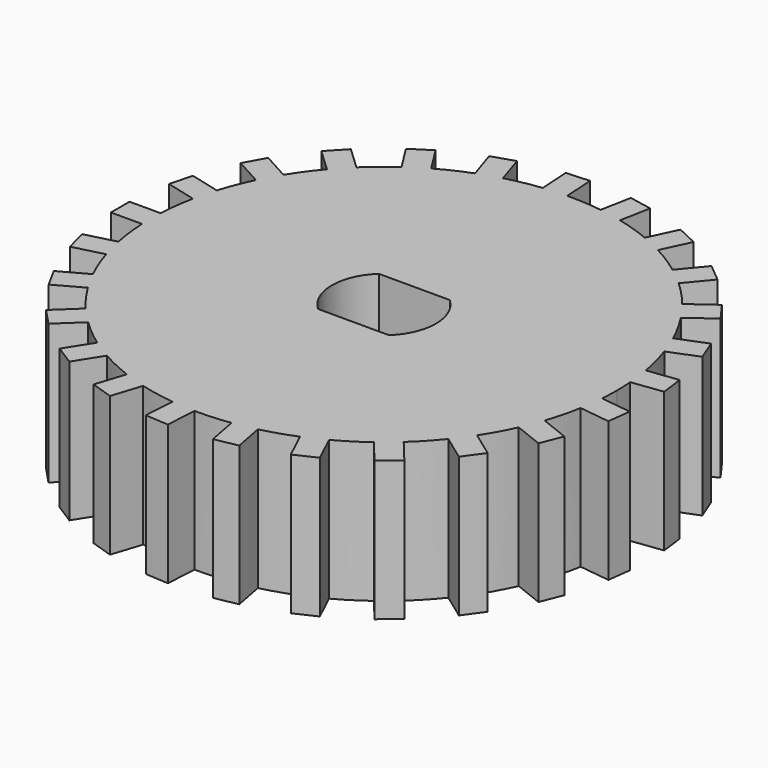
from build123d import *

# Parameters (mm, degrees)
F1_DEPTH = 9


with BuildPart() as f1:
    # F0 (on Top) → F1 (new body)
    with BuildSketch(Plane.XY):
        with BuildLine():
            ThreePointArc((-14.697093, 2.999245), (-14.528747, 3.730348), (-14.324058, 4.45212))
            Line((-14.324058, 4.45212), (-16.261224, 4.9495))
            Line((-16.261224, 4.9495), (-16.634259, 3.496625))
            Line((-16.634259, 3.496625), (-14.697093, 2.999245))
        make_face()
        with BuildLine():
            ThreePointArc((-13.489474, 6.560037), (-13.1446, 7.226305), (-12.766844, 7.874497))
            Line((-12.766844, 7.874497), (-14.519457, 8.838004))
            Line((-14.519457, 8.838004), (-15.242088, 7.523544))
            Line((-15.242088, 7.523544), (-13.489474, 6.560037))
        make_face()
        with BuildLine():
            ThreePointArc((-11.434263, 9.708637), (-10.934529, 10.268207), (-10.407442, 10.80209))
            Line((-10.407442, 10.80209), (-11.86538, 12.171184))
            Line((-11.86538, 12.171184), (-12.8922, 11.077731))
            Line((-12.8922, 11.077731), (-11.434263, 9.708637))
        make_face()
        with BuildLine():
            ThreePointArc((-8.660595, 12.247208), (-8.037402, 12.664919), (-7.394103, 13.050948))
            Line((-7.394103, 13.050948), (-8.465757, 14.739604))
            Line((-8.465757, 14.739604), (-9.732248, 13.935864))
            Line((-9.732248, 13.935864), (-8.660595, 12.247208))
        make_face()
        with BuildLine():
            ThreePointArc((-14.981238, -0.75), (-15, 0), (-14.981238, 0.75))
            Line((-14.981238, 0.75), (-16.981238, 0.75))
            Line((-16.981238, 0.75), (-16.981238, -0.75))
            Line((-16.981238, -0.75), (-14.981238, -0.75))
        make_face()
        with BuildLine():
            Line((-16.261224, -4.9495), (-14.324058, -4.45212))
            ThreePointArc((-14.324058, -4.45212), (-14.528747, -3.730348), (-14.697093, -2.999245))
            Line((-14.697093, -2.999245), (-16.634259, -3.496625))
            Line((-16.634259, -3.496625), (-16.261224, -4.9495))
        make_face()
        with BuildLine():
            Line((-14.519457, -8.838004), (-12.766844, -7.874497))
            ThreePointArc((-12.766844, -7.874497), (-13.1446, -7.226305), (-13.489474, -6.560037))
            Line((-13.489474, -6.560037), (-15.242088, -7.523544))
            Line((-15.242088, -7.523544), (-14.519457, -8.838004))
        make_face()
        with BuildLine():
            ThreePointArc((14.957107, -1.133561), (14.989273, -0.567186), (15, 0))
            ThreePointArc((15, 0), (14.989273, 0.567186), (14.957107, 1.133561))
            ThreePointArc((14.957107, 1.133561), (14.881721, 1.879999), (14.769107, 2.621733))
            ThreePointArc((14.769107, 2.621733), (14.528747, 3.730348), (14.205296, 4.817629))
            ThreePointArc((14.205296, 4.817629), (13.946647, 5.521868), (13.65311, 6.212294))
            ThreePointArc((13.65311, 6.212294), (13.1446, 7.226305), (12.560915, 8.198988))
            ThreePointArc((12.560915, 8.198988), (12.135255, 8.816779), (11.679237, 9.412514))
            ThreePointArc((11.679237, 9.412514), (10.934529, 10.268207), (10.127286, 11.065174))
            ThreePointArc((10.127286, 11.065174), (9.56136, 11.557699), (8.971516, 12.02131))
            ThreePointArc((8.971516, 12.02131), (8.037402, 12.664919), (7.057321, 13.236095))
            ThreePointArc((7.057321, 13.236095), (6.386689, 13.572406), (5.700081, 13.874764))
            ThreePointArc((5.700081, 13.874764), (4.635255, 14.265848), (3.54392, 14.575343))
            ThreePointArc((3.54392, 14.575343), (2.81072, 14.734309), (2.070489, 14.856415))
            ThreePointArc((2.070489, 14.856415), (0.941858, 14.970401), (-0.19216, 14.998769))
            ThreePointArc((-0.19216, 14.998769), (-0.941858, 14.970401), (-1.6892, 14.904583))
            ThreePointArc((-1.6892, 14.904583), (-2.81072, 14.734309), (-3.916165, 14.479767))
            ThreePointArc((-3.916165, 14.479767), (-4.635255, 14.265848), (-5.34275, 14.016242))
            ThreePointArc((-5.34275, 14.016242), (-6.386689, 13.572406), (-7.394103, 13.050948))
            ThreePointArc((-7.394103, 13.050948), (-8.037402, 12.664919), (-8.660595, 12.247208))
            ThreePointArc((-8.660595, 12.247208), (-9.56136, 11.557699), (-10.407442, 10.80209))
            ThreePointArc((-10.407442, 10.80209), (-10.934529, 10.268207), (-11.434263, 9.708637))
            ThreePointArc((-11.434263, 9.708637), (-12.135255, 8.816779), (-12.766844, 7.874497))
            ThreePointArc((-12.766844, 7.874497), (-13.1446, 7.226305), (-13.489474, 6.560037))
            ThreePointArc((-13.489474, 6.560037), (-13.946647, 5.521868), (-14.324058, 4.45212))
            ThreePointArc((-14.324058, 4.45212), (-14.528747, 3.730348), (-14.697093, 2.999245))
            ThreePointArc((-14.697093, 2.999245), (-14.881721, 1.879999), (-14.981238, 0.75))
            ThreePointArc((-14.981238, 0.75), (-15, 0), (-14.981238, -0.75))
            ThreePointArc((-14.981238, -0.75), (-14.881721, -1.879999), (-14.697093, -2.999245))
            ThreePointArc((-14.697093, -2.999245), (-14.528747, -3.730348), (-14.324058, -4.45212))
            ThreePointArc((-14.324058, -4.45212), (-13.946647, -5.521868), (-13.489474, -6.560037))
            ThreePointArc((-13.489474, -6.560037), (-13.1446, -7.226305), (-12.766844, -7.874497))
            ThreePointArc((-12.766844, -7.874497), (-12.135255, -8.816779), (-11.434263, -9.708637))
            ThreePointArc((-11.434263, -9.708637), (-10.934529, -10.268207), (-10.407442, -10.80209))
            ThreePointArc((-10.407442, -10.80209), (-9.56136, -11.557699), (-8.660595, -12.247208))
            ThreePointArc((-8.660595, -12.247208), (-8.037402, -12.664919), (-7.394103, -13.050948))
            ThreePointArc((-7.394103, -13.050948), (-6.386689, -13.572406), (-5.34275, -14.016242))
            ThreePointArc((-5.34275, -14.016242), (-4.635255, -14.265848), (-3.916165, -14.479767))
            ThreePointArc((-3.916165, -14.479767), (-2.81072, -14.734309), (-1.6892, -14.904583))
            ThreePointArc((-1.6892, -14.904583), (-0.941858, -14.970401), (-0.19216, -14.998769))
            ThreePointArc((-0.19216, -14.998769), (0.941858, -14.970401), (2.070489, -14.856415))
            ThreePointArc((2.070489, -14.856415), (2.81072, -14.734309), (3.54392, -14.575343))
            ThreePointArc((3.54392, -14.575343), (4.635255, -14.265848), (5.700081, -13.874764))
            ThreePointArc((5.700081, -13.874764), (6.386689, -13.572406), (7.057321, -13.236095))
            ThreePointArc((7.057321, -13.236095), (8.037402, -12.664919), (8.971516, -12.02131))
            ThreePointArc((8.971516, -12.02131), (9.56136, -11.557699), (10.127286, -11.065174))
            ThreePointArc((10.127286, -11.065174), (10.934529, -10.268207), (11.679237, -9.412514))
            ThreePointArc((11.679237, -9.412514), (12.135255, -8.816779), (12.560915, -8.198988))
            ThreePointArc((12.560915, -8.198988), (13.1446, -7.226305), (13.65311, -6.212294))
            ThreePointArc((13.65311, -6.212294), (13.946647, -5.521868), (14.205296, -4.817629))
            ThreePointArc((14.205296, -4.817629), (14.528747, -3.730348), (14.769107, -2.621733))
            ThreePointArc((14.769107, -2.621733), (14.881721, -1.879999), (14.957107, -1.133561))
        make_face()
        with BuildLine():
            ThreePointArc((-2.284732, -2.45), (-3.35, 0), (-2.284732, 2.45))
            Line((-2.284732, 2.45), (2.284732, 2.45))
            ThreePointArc((2.284732, 2.45), (3.35, 0), (2.284732, -2.45))
            Line((2.284732, -2.45), (-2.284732, -2.45))
        make_face(mode=Mode.SUBTRACT)
        with BuildLine():
            Line((-11.86538, -12.171184), (-10.407442, -10.80209))
            ThreePointArc((-10.407442, -10.80209), (-10.934529, -10.268207), (-11.434263, -9.708637))
            Line((-11.434263, -9.708637), (-12.8922, -11.077731))
            Line((-12.8922, -11.077731), (-11.86538, -12.171184))
        make_face()
        with BuildLine():
            Line((-8.465757, -14.739604), (-7.394103, -13.050948))
            ThreePointArc((-7.394103, -13.050948), (-8.037402, -12.664919), (-8.660595, -12.247208))
            Line((-8.660595, -12.247208), (-9.732248, -13.935864))
            Line((-9.732248, -13.935864), (-8.465757, -14.739604))
        make_face()
        with BuildLine():
            ThreePointArc((-5.34275, 14.016242), (-4.635255, 14.265848), (-3.916165, 14.479767))
            Line((-3.916165, 14.479767), (-4.534199, 16.38188))
            Line((-4.534199, 16.38188), (-5.960784, 15.918355))
            Line((-5.960784, 15.918355), (-5.34275, 14.016242))
        make_face()
        with BuildLine():
            ThreePointArc((-1.6892, 14.904583), (-0.941858, 14.970401), (-0.19216, 14.998769))
            Line((-0.19216, 14.998769), (-0.317741, 16.994823))
            Line((-0.317741, 16.994823), (-1.814781, 16.900637))
            Line((-1.814781, 16.900637), (-1.6892, 14.904583))
        make_face()
        with BuildLine():
            ThreePointArc((2.070489, 14.856415), (2.81072, 14.734309), (3.54392, 14.575343))
            Line((3.54392, 14.575343), (3.918682, 16.539918))
            Line((3.918682, 16.539918), (2.445251, 16.82099))
            Line((2.445251, 16.82099), (2.070489, 14.856415))
        make_face()
        with BuildLine():
            ThreePointArc((5.700081, 13.874764), (6.386689, 13.572406), (7.057321, 13.236095))
            Line((7.057321, 13.236095), (7.90888, 15.045749))
            Line((7.90888, 15.045749), (6.551639, 15.684418))
            Line((6.551639, 15.684418), (5.700081, 13.874764))
        make_face()
        with BuildLine():
            ThreePointArc((8.971516, 12.02131), (9.56136, 11.557699), (10.127286, 11.065174))
            Line((10.127286, 11.065174), (11.402134, 12.606201))
            Line((11.402134, 12.606201), (10.246364, 13.562337))
            Line((10.246364, 13.562337), (8.971516, 12.02131))
        make_face()
        with BuildLine():
            ThreePointArc((11.679237, 9.412514), (12.135255, 8.816779), (12.560915, 8.198988))
            Line((12.560915, 8.198988), (14.178949, 9.374559))
            Line((14.178949, 9.374559), (13.297271, 10.588084))
            Line((13.297271, 10.588084), (11.679237, 9.412514))
        make_face()
        with BuildLine():
            ThreePointArc((13.65311, 6.212294), (13.946647, 5.521868), (14.205296, 4.817629))
            Line((14.205296, 4.817629), (16.064849, 5.553878))
            Line((16.064849, 5.553878), (15.512663, 6.948543))
            Line((15.512663, 6.948543), (13.65311, 6.212294))
        make_face()
        with BuildLine():
            ThreePointArc((14.769107, 2.621733), (14.881721, 1.879999), (14.957107, 1.133561))
            Line((14.957107, 1.133561), (16.941336, 1.384227))
            Line((16.941336, 1.384227), (16.753336, 2.8724))
            Line((16.753336, 2.8724), (14.769107, 2.621733))
        make_face()
        with BuildLine():
            Line((16.941336, -1.384227), (14.957107, -1.133561))
            ThreePointArc((14.957107, -1.133561), (14.881721, -1.879999), (14.769107, -2.621733))
            Line((14.769107, -2.621733), (16.753336, -2.8724))
            Line((16.753336, -2.8724), (16.941336, -1.384227))
        make_face()
        with BuildLine():
            Line((16.064849, -5.553878), (14.205296, -4.817629))
            ThreePointArc((14.205296, -4.817629), (13.946647, -5.521868), (13.65311, -6.212294))
            Line((13.65311, -6.212294), (15.512663, -6.948543))
            Line((15.512663, -6.948543), (16.064849, -5.553878))
        make_face()
        with BuildLine():
            Line((14.178949, -9.374559), (12.560915, -8.198988))
            ThreePointArc((12.560915, -8.198988), (12.135255, -8.816779), (11.679237, -9.412514))
            Line((11.679237, -9.412514), (13.297271, -10.588084))
            Line((13.297271, -10.588084), (14.178949, -9.374559))
        make_face()
        with BuildLine():
            Line((11.402134, -12.606201), (10.127286, -11.065174))
            ThreePointArc((10.127286, -11.065174), (9.56136, -11.557699), (8.971516, -12.02131))
            Line((8.971516, -12.02131), (10.246364, -13.562337))
            Line((10.246364, -13.562337), (11.402134, -12.606201))
        make_face()
        with BuildLine():
            Line((7.90888, -15.045749), (7.057321, -13.236095))
            ThreePointArc((7.057321, -13.236095), (6.386689, -13.572406), (5.700081, -13.874764))
            Line((5.700081, -13.874764), (6.551639, -15.684418))
            Line((6.551639, -15.684418), (7.90888, -15.045749))
        make_face()
        with BuildLine():
            Line((3.918682, -16.539918), (3.54392, -14.575343))
            ThreePointArc((3.54392, -14.575343), (2.81072, -14.734309), (2.070489, -14.856415))
            Line((2.070489, -14.856415), (2.445251, -16.82099))
            Line((2.445251, -16.82099), (3.918682, -16.539918))
        make_face()
        with BuildLine():
            Line((-0.317741, -16.994823), (-0.19216, -14.998769))
            ThreePointArc((-0.19216, -14.998769), (-0.941858, -14.970401), (-1.6892, -14.904583))
            Line((-1.6892, -14.904583), (-1.814781, -16.900637))
            Line((-1.814781, -16.900637), (-0.317741, -16.994823))
        make_face()
        with BuildLine():
            Line((-4.534199, -16.38188), (-3.916165, -14.479767))
            ThreePointArc((-3.916165, -14.479767), (-4.635255, -14.265848), (-5.34275, -14.016242))
            Line((-5.34275, -14.016242), (-5.960784, -15.918355))
            Line((-5.960784, -15.918355), (-4.534199, -16.38188))
        make_face()
    extrude(amount=F1_DEPTH)


solid = f1.part
